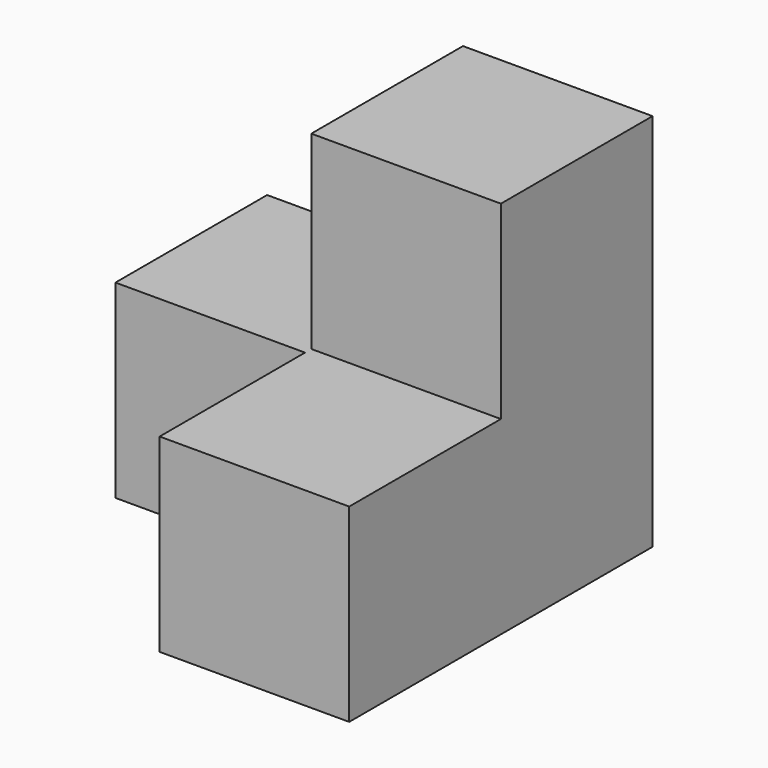
from build123d import *

# Parameters (mm, degrees)
F1_DEPTH = 20
F2_W     = 20
F2_H     = 20
F3_DEPTH = 20


with BuildPart() as f1:
    # F0 (on Right) → F1 (new body)
    with BuildSketch(Plane.YZ):
        Polygon((43.928572, -20), (43.928572, 20), (23.928572, 20), (23.928572, 0), (3.928572, 0), (3.928572, -20), align=None)
    extrude(amount=F1_DEPTH)

    # F2 (on Right) → F3 (join)
    with BuildSketch(Plane.YZ):
        with Locations((33.10277, -10)):
            Rectangle(F2_W, F2_H)
    extrude(amount=-F3_DEPTH)


solid = f1.part
